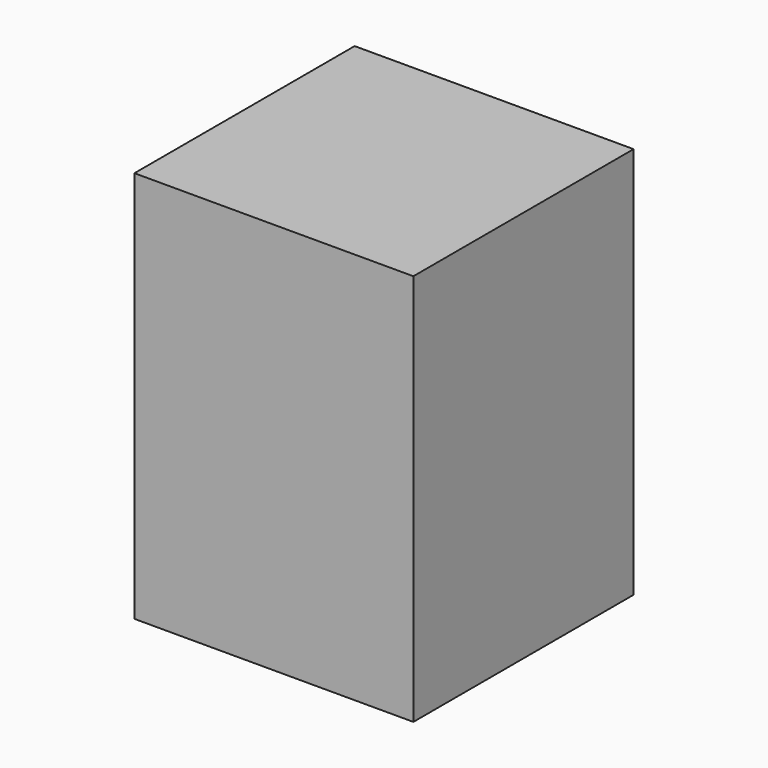
from build123d import *

# Parameters (mm, degrees)
F0_W     = 90.2906134725
F0_H     = 89.0986584127
F1_DEPTH = 127
F2_T     = -12.7
F3_R     = 5.08
F4_R     = 25.4


with BuildPart() as f1:
    # F0 (on Top) → F1 (new body)
    with BuildSketch(Plane.XY):
        with Locations((0.744972378, 2.0859222859)):
            Rectangle(F0_W, F0_H)
    extrude(amount=F1_DEPTH)

    # F2
    f2_openings = [f1.faces().sort_by_distance(p)[0] for p in [
        (-44.400334, 2.085922, 63.5),
    ]]
    offset(amount=F2_T, openings=f2_openings)

    # F3
    f3_edges = [f1.edges().sort_by_distance(p)[0] for p in [
        (-44.400334, -29.763407, 63.5),
        (-44.400334, 2.085922, 12.7),
        (-44.400334, 33.935251, 63.5),
        (-44.400334, 2.085922, 114.3),
    ]]
    fillet(f3_edges, radius=F3_R)

    # F4
    f4_edges = [f1.edges().sort_by_distance(p)[0] for p in [
        (33.190279, 2.085922, 12.7),
        (33.190279, 33.935251, 63.5),
        (33.190279, 2.085922, 114.3),
        (33.190279, -29.763407, 63.5),
    ]]
    fillet(f4_edges, radius=F4_R)


solid = f1.part
